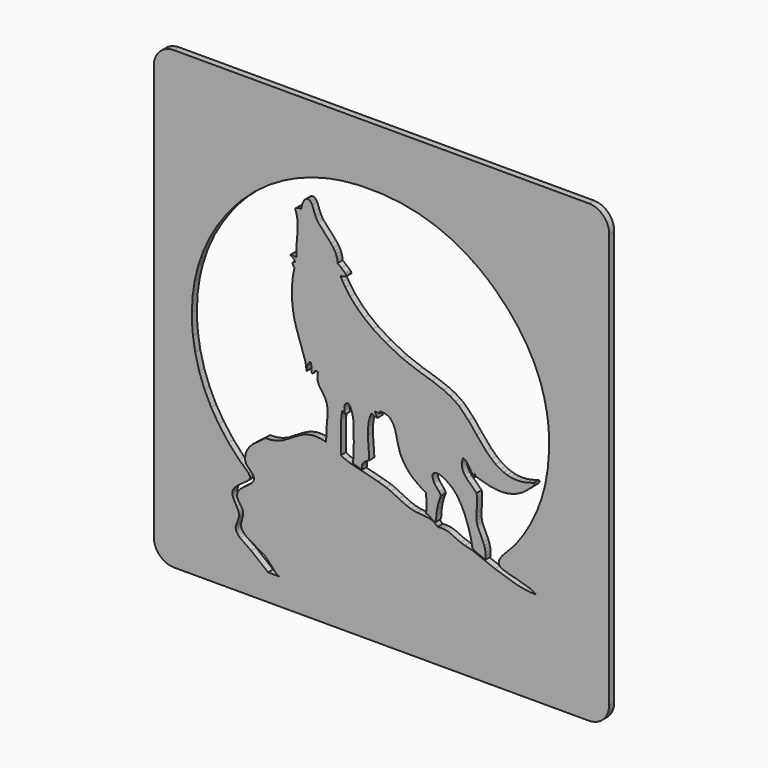
from build123d import *

# Parameters (mm, degrees)
F0_W     = 114.3
F0_H     = 114.3
F1_DEPTH = 1.5875
F2_R     = 5.08


with BuildPart() as f1:
    # F0 (on Front) → F1 (new body)
    with BuildSketch(Plane.XZ):
        Rectangle(F0_W, F0_H)
        Polygon((-50.6131689151, -48.9513142645), (-50.8, -48.5148517299), (-50.8, 48.5148517299), (-50.6382890609, 48.8979339545), (-50.478148131, 49.2040857324), (-50.2960270734, 49.4898273917), (-50.090355879, 49.7504489052), (-49.8988147667, 49.9482700539), (-49.688433545, 50.1288211024), (-49.4592122139, 50.2889620324), (-49.2095807643, 50.4286928438), (-48.937969187, 50.5464435276), (48.937969187, 50.5464435276), (49.2095807643, 50.4286928438), (49.4105419313, 50.3187922056), (49.6444732898, 50.1617912939), (49.8579945297, 49.9859502727), (50.0526756602, 49.7912691422), (50.2300866905, 49.5793179114), (50.4200577936, 49.3014262977), (50.6131689151, 48.9497442554), (50.8, 48.5148517299), (50.8, -48.5148517299), (50.6382890609, -48.8979339545), (50.478148131, -49.2056557415), (50.2960270734, -49.4898273917), (50.090355879, -49.7520189143), (49.8988147667, -49.949840063), (49.688433545, -50.1303911115), (49.4592122139, -50.2905320415), (49.2095807643, -50.4286928438), (48.937969187, -50.5464435276), (-25.7395144716, -50.5464435276), (-28.4477801987, -50.5464435276), (-48.937969187, -50.5464435276), (-49.2095807643, -50.4286928438), (-49.4105419313, -50.3187922056), (-49.6444732898, -50.163361303), (-49.8579945297, -49.9875202819), (-50.0526756602, -49.7928391513), (-50.2300866905, -49.5808879205), (-50.4200577936, -49.3029963068), align=None, mode=Mode.SUBTRACT)
        Polygon((-50.8, 48.5148517299), (-50.8, -48.5148517299), (-50.6131689151, -48.9513142645), (-50.4200577936, -49.3029963068), (-50.2300866905, -49.5808879205), (-50.0526756602, -49.7928391513), (-49.8579945297, -49.9875202819), (-49.6444732898, -50.163361303), (-49.4105419313, -50.3187922056), (-49.2095807643, -50.4286928438), (-48.937969187, -50.5464435276), (-28.4477801987, -50.5464435276), (-32.6820947878, -47.1599338618), (-35.5065411896, -45.1958524562), (-35.9084635236, -44.7970701405), (-36.1141347179, -44.5458686817), (-36.2884057299, -44.2836771591), (-36.4265665322, -44.0120655819), (-36.4972169425, -43.8236644878), (-36.5474572342, -43.6321233755), (-36.5772874075, -43.4343022268), (-36.5819974348, -43.3244015886), (-36.5725773801, -43.1532705948), (-36.544317216, -42.9758595645), (-36.4658167602, -42.6697077867), (-35.7844328033, -40.7417365908), (-35.740472548, -40.4779750591), (-35.7310524933, -40.3460942933), (-35.7294824842, -40.2173535457), (-35.7420425571, -40.0462225519), (-35.7891428307, -39.7903110658), (-35.8645032683, -39.5296895523), (-36.0026640706, -39.1827175374), (-36.3182359031, -38.5688439726), (-37.1456307079, -37.060065211), (-37.2869315284, -36.7036731414), (-37.3638619752, -36.4367715915), (-37.4125322578, -36.1698700416), (-37.4250923308, -35.9924590113), (-37.4235223216, -35.8150479811), (-37.3874121119, -35.5559964768), (-37.3167617017, -35.3079350362), (-37.2147111091, -35.0708636595), (-37.0828303432, -34.8416423284), (-36.9242594224, -34.6202710429), (-36.6463678086, -34.3046992104), (-36.2114752832, -33.9059168946), (-35.3479702687, -33.2637831657), (-33.6963206775, -32.089416346), (-33.4341291549, -31.8429249146), (-33.2896883161, -31.6765039482), (-33.1719376323, -31.5069429635), (-33.0855871309, -31.3358119698), (-33.0557569576, -31.2494614683), (-33.03377683, -31.1615409578), (-33.0212167571, -31.0736204472), (-33.0180767388, -31.0186701281), (-33.0212167571, -30.963719809), (-33.0400568665, -30.8506791526), (-33.0793070944, -30.7313584597), (-33.1326874044, -30.6088977485), (-33.2425880426, -30.4204966545), (-33.4341291549, -30.1583051319), (-33.7983712701, -29.7548127888), (-34.8125971598, -28.8316474279), (-35.7294824842, -28.0262327508), (-38.3953579652, -25.1044457837), (-40.8524222336, -21.8278367561), (-42.7427132106, -18.7396288226), (-44.3833727381, -15.3907993757), (-45.7335805789, -11.7829184244), (-46.7462364594, -7.9159859688), (-47.3004496778, -4.4965061116), (-47.4951308083, -2.358153694), (-47.5830513189, 0.5918934372), (-47.396220234, 4.3128150449), (-46.88753728, 7.851615595), (-46.0899726485, 11.2098650967), (-44.7915751086, 15.0014371146), (-43.1697556905, 18.5370976465), (-41.2763246952, 21.8137066741), (-38.7910002627, 25.3148270054), (-36.878729158, 27.6039002982), (-34.88324757, 29.71713257), (-31.747939363, 32.5509990265), (-28.2609491138, 35.1179639331), (-24.4442569499, 37.3724970253), (-20.9258665183, 39.0241466166), (-17.1955248559, 40.3853445212), (-13.2657920356, 41.427830575), (-9.8478821875, 42.0322840851), (-5.5884474526, 42.4185063279), (-0.2504164542, 42.4106562824), (4.7218024199, 41.9286634834), (9.3407692427, 41.0117781589), (13.6221841052, 39.6976805279), (17.5786070805, 38.0287608363), (21.2273082688, 36.041129294), (24.5808477431, 33.777176147), (26.6595398143, 32.1333766013), (28.6173411834, 30.3953765086), (31.7793395454, 27.1595877181), (34.360434534, 23.9991593652), (36.6887580548, 20.5215891706), (38.4283281566, 17.284230371), (39.88058659, 13.8050901674), (40.8382921515, 10.7168822339), (41.5369462086, 7.4528332792), (41.8195478497, 5.4086814087), (41.9953888709, 3.3017291734), (42.0456291626, -0.9231653609), (41.7347673574, -4.8670282633), (41.098913665, -8.5408495975), (40.1741782949, -11.9571894364), (38.996671457, -15.1333178805), (37.3497318931, -18.5465177012), (35.7451825754, -21.2406533463), (33.6978906866, -24.131040131), (33.3383585987, -24.5470925471), (30.2862608749, -27.7891613741), (29.8435183039, -28.4281550848), (29.644127146, -28.7971072273), (29.5436465625, -29.034178604), (29.4729961522, -29.2633999351), (29.4353159334, -29.4832012115), (29.4306059061, -29.6920124241), (29.443165979, -29.7909229985), (29.4635760975, -29.8882635637), (29.4855562252, -29.9510639284), (29.5122463802, -30.012294284), (29.5844667996, -30.1300449678), (29.6786673466, -30.2430856242), (29.7948480213, -30.3498462442), (29.9298688053, -30.4534668459), (30.1653701729, -30.5963376756), (30.528042279, -30.7737487058), (32.310002627, -31.3295319333), (34.0370126559, -31.7502943767), (37.2100010817, -32.6891598288), (37.8144545918, -32.9576313878), (38.2100968893, -33.1821426916), (38.5036885943, -33.3862438768), (38.7768701806, -33.6138951988), (36.5254771066, -33.4443342141), (34.0841129294, -33.0204317525), (28.4415001623, -31.2117812495), (22.8601177507, -29.0420286496), (22.141053575, -28.8347874461), (20.9635467371, -28.5616058597), (19.8127300542, -28.1942237263), (16.9207732604, -26.9083862593), (16.3351598597, -26.7466753203), (15.7165762675, -26.6399147003), (15.1921932224, -26.5990944632), (14.6395500131, -26.6085145179), (14.0539366124, -26.6713148826), (13.7305147343, -26.327482886), (13.4824532938, -26.113961646), (13.2281118168, -25.9334105976), (12.9659202942, -25.7826897223), (12.6974487352, -25.6586590021), (12.3253565744, -25.5299182544), (11.8339437207, -25.4184476071), (10.5151360623, -25.2802868048), (8.8053961337, -25.1468360299), (8.1193021495, -25.0385054008), (7.3123174633, -24.8359742247), (6.2588413456, -24.465452073), (4.3434302227, -23.5846769583), (2.3699287624, -22.6065612783), (1.1845718789, -22.1229984702), (-0.8454499096, -21.5028448689), (-8.139712268, -19.642384065), (-9.0738676927, -19.267151886), (-10.1603140018, -18.7113686585), (-10.1132137283, -10.7953826897), (-10.0080231175, -9.8298270827), (-9.8211920325, -8.7214006459), (-9.7756617681, -8.7292506915), (-9.733271522, -8.7418107645), (-9.6955913031, -8.7575108556), (-9.6594810934, -8.776350965), (-9.626510902, -8.7983310927), (-9.5966807288, -8.8218812294), (-9.5558604917, -8.8627014665), (-9.519750282, -8.9066617218), (-9.466369972, -8.9883021958), (-9.3030890238, -9.2599137731), (-9.265408805, -9.3038740284), (-9.224588568, -9.3446942654), (-9.1947583948, -9.3682444022), (-9.1790583036, -9.379234466), (-9.144518103, -9.3980745754), (-9.2889589418, -8.4230989137), (-9.3062290421, -7.9913464064), (-9.29209896, -7.7165948109), (-9.2622687868, -7.5219136804), (-9.2167385224, -7.3413626319), (-9.1743482762, -7.2298919846), (-9.1225379754, -7.1247013738), (-9.0613076198, -7.0305008267), (-8.9890872004, -6.9457203344), (-8.9058767172, -6.8719299059), (-8.810106161, -6.8075595321), (-8.7033455411, -6.7573192403), (-8.5824548391, -6.7212090306), (-8.447434055, -6.6976588939), (-8.2982831888, -6.6898088483), (-8.0486517392, -7.0038106717), (-7.8304204719, -7.3523526957), (-7.6388793596, -7.7338649112), (-7.4018079829, -8.360298549), (-7.2165469071, -9.0463925332), (-7.0438459042, -10.0386382952), (-6.9449353298, -14.8507162394), (-7.1129263054, -19.5591735818), (-4.910203514, -20.2358475113), (-4.9447437146, -19.8370651956), (-4.9384636781, -19.5685936365), (-4.9070634957, -19.3252422234), (-4.8521131766, -19.1070109561), (-4.7751827299, -18.9076197982), (-4.6809821829, -18.7286387588), (-4.5679415264, -18.5669278198), (-4.4407707879, -18.4209169719), (-4.2994699674, -18.2874661969), (-4.093798773, -18.1273252669), (-3.58354581, -17.8148934526), (-3.048172701, -17.5260117751), (-3.4155548344, -12.2272310046), (-3.3464744333, -10.209769289), (-3.1784834577, -8.96318205), (-3.0010724275, -8.1985876099), (-2.8283714246, -7.6679245283), (-2.539489747, -7.0273608085), (-2.4484292182, -7.0493409361), (-2.3196884706, -7.0933011914), (-1.4467634015, -7.4575433066), (-1.3384327724, -7.4826634525), (-1.2348121707, -7.4952235254), (-1.1688717877, -7.4967935345), (-1.1045014139, -7.4920835072), (-1.0417010492, -7.4795234342), (-0.9820407028, -7.4575433066), (-0.9255203746, -7.4292831425), (-0.8988302196, -7.4104430331), (-0.8470199187, -7.3664827778), (-0.8925501831, -7.3476426684), (-0.9412204657, -7.3209525134), (-1.0134408851, -7.2707122217), (-1.1107814504, -7.1875017384), (-1.2065520066, -7.0885911641), (-1.319592663, -6.9472903435), (-1.4185032374, -6.7965694683), (-1.5001437115, -6.6442785839), (-1.547243985, -6.5265279001), (-1.5707941217, -6.4433174169), (-1.5802141764, -6.391507116), (-1.5833541947, -6.3428368334), (-1.5817841856, -6.2988765781), (-1.57393414, -6.2580563411), (-1.5676541035, -6.2407862408), (-1.5598040579, -6.2235161405), (-1.5488139941, -6.2078160493), (-1.5378239303, -6.1936859673), (-1.5236938482, -6.1811258943), (-0.9396504566, -6.377377034), (-0.770089472, -6.4134872437), (-0.6884489979, -6.4213372893), (-0.6413487244, -6.4197672801), (-0.6005284873, -6.4134872437), (-0.5644182776, -6.4024971799), (-0.5487181865, -6.3946471343), (-0.5345881044, -6.3867970887), (-0.5220280315, -6.3758070249), (-0.5094679585, -6.364816961), (-0.5000479038, -6.3522568881), (-0.4906278491, -6.3381268061), (-0.4827778035, -6.3224267149), (-0.4749277579, -6.3051566146), (-0.4655077032, -6.2674763958), (-0.4592276668, -6.2250861496), (-0.4576576577, -6.176415867), (-0.4639376941, -6.0916353747), (-0.4780677762, -5.9942948094), (-0.5078979494, -5.842003925), (-0.0086350501, -5.8200237974), (0.4466675938, -5.8435739341), (0.8611500008, -5.9079443079), (1.2379521889, -6.0147049279), (1.5786441673, -6.1575757576), (1.8863659543, -6.3365567969), (2.1611175498, -6.5485080278), (2.4091789903, -6.7902894318), (2.6305502758, -7.060331), (2.8283714246, -7.355492714), (3.0858529198, -7.8406255312), (3.3668845518, -8.5518396613), (3.6981564755, -9.7183564353), (4.0702486363, -11.3558759446), (4.5726515538, -13.1237062105), (4.9839939425, -14.1033918996), (5.459706705, -14.9998671055), (5.9982198322, -15.8209818738), (6.718854017, -16.7158870706), (7.5164186485, -17.5260117751), (8.5353545655, -18.3800967348), (9.8070619505, -19.2593018404), (11.1761099006, -20.0662865267), (11.3378208397, -22.8295025729), (11.2985706118, -23.7448178882), (11.1761099006, -24.6381530759), (11.2860105388, -24.6569931853), (11.3974811862, -24.6868233585), (11.5686121799, -24.7496237232), (11.8041135475, -24.8642343888), (12.3379166474, -25.1923662943), (13.0554108139, -25.6429589109), (13.2014216618, -25.7104693029), (13.2924821906, -25.7434394944), (13.378832692, -25.765419622), (13.458903157, -25.7732696676), (13.4965833758, -25.7732696676), (13.5342635946, -25.7685596403), (13.5688037952, -25.7591395856), (13.6017739867, -25.7481495217), (13.633174169, -25.7308794214), (13.6630043422, -25.7104693029), (13.6896944972, -25.685349157), (13.7163846522, -25.6555189838), (13.7619149166, -24.2440807875), (13.9204858375, -22.9456832476), (14.2046574877, -21.6284455983), (14.5076692473, -20.620499745), (14.9017415357, -19.5591735818), (14.7871308701, -19.2969820592), (14.6536800952, -19.0552006552), (14.44957891, -18.7568989229), (13.2736420812, -17.3030704804), (13.1386212971, -17.0597190673), (13.0255806407, -16.7975275447), (12.9376601301, -16.5102158763), (12.8779997837, -16.1946440437), (12.8497396196, -15.8461020197), (12.8513096287, -15.5949005609), (12.868579729, -15.3248589928), (13.0318606771, -15.1631480537), (13.2092717074, -15.0375473243), (13.4023828288, -14.9464867955), (13.6080540231, -14.8868264491), (13.8262852904, -14.8569962759), (14.0523666033, -14.8554262667), (14.2878679709, -14.8805464126), (14.6521100861, -14.9590468685), (15.0273422651, -15.0830775887), (15.5313151917, -15.3075888925), (16.1530388021, -15.6545609074), (16.9631635066, -16.2056341075), (17.6398374361, -16.7472872529), (18.1186902168, -17.1884598149), (18.7043036175, -17.8431536167), (19.3872575835, -18.7898691144), (20.1377219415, -20.0772765905), (21.015357038, -21.9769876223), (21.9055522074, -24.4890022098), (22.4440653346, -26.4734937339), (22.8601177507, -28.5333456956), (23.0689289633, -28.7044766894), (23.2981502944, -28.8551975646), (23.6702424551, -29.0514487043), (24.4112867585, -29.3528904548), (25.2433915906, -29.6590422326), (26.0770664318, -30.0578245484), (26.1304467418, -29.1896095066), (26.0911965138, -28.4030349389), (25.9750158392, -27.6871107815), (25.799174818, -27.0292769614), (25.5134331587, -26.2693925486), (24.1082749988, -23.1968847063), (23.9842442786, -22.7431520715), (23.8759136495, -22.0994483334), (23.8335234033, -21.4039342945), (23.8712036221, -20.2766677484), (24.0234945065, -17.5417118662), (23.9873842968, -16.8697479641), (23.8759136495, -16.0031029314), (21.3811691623, -13.5852888909), (20.8771962357, -12.9243150526), (20.6228547587, -12.5098326457), (20.4156135552, -12.0812201567), (20.2601826526, -11.6384775856), (20.1911022515, -11.335465826), (20.1518520236, -11.0277440391), (20.1455719871, -10.7137422156), (20.1738321512, -10.3934603557), (20.238202525, -10.0668984594), (20.3433931358, -9.7356265356), (20.4894039837, -9.3980745754), (20.6746650596, -9.4467448581), (20.8489360716, -9.5205352866), (21.0137870289, -9.6178758518), (21.1707879406, -9.7340565265), (21.3921592261, -9.9397277209), (21.5978304205, -10.1783691067), (21.9102622348, -10.6258217051), (22.904078006, -12.2743312781), (23.0029885803, -12.3889419437), (23.105039173, -12.4847124998), (23.2086597747, -12.5569329192), (23.2620400847, -12.5851930833), (23.3154203947, -12.6056032018), (23.3688007046, -12.6181632748), (23.4237510238, -12.6260133204), (23.480271352, -12.6244433112), (23.5367916802, -12.6165932656), (23.5085315161, -12.6103132292), (23.4834113702, -12.6024631836), (23.4614312426, -12.5899031107), (23.4425911332, -12.5757730286), (23.4253210329, -12.5585029283), (23.4111909508, -12.5396628189), (23.3986308779, -12.5176826913), (23.3876408141, -12.4941325545), (23.3766507502, -12.4548823266), (23.3688007046, -12.4124920804), (23.3640906773, -12.1801307311), (23.3688007046, -11.938349327), (23.4473011605, -12.0592400291), (23.5383616893, -12.166000649), (23.6388422728, -12.2602011961), (23.748742911, -12.3449816884), (23.9073138318, -12.4423222536), (24.0784448256, -12.5255327369), (24.8006490195, -12.7531840588), (25.5699534869, -12.9541452258), (27.2608533061, -13.3906077604), (28.6032111013, -13.6025589912), (29.8843385409, -13.6810594471), (30.8655942392, -13.6465192465), (31.8107397277, -13.5271985536), (32.7182049975, -13.3262373866), (33.5911300666, -13.0404957273), (34.4263749169, -12.6731135939), (35.2286495758, -12.2240909864), (35.9963840341, -11.6949979139), (36.5490272434, -11.2459753064), (37.0844003523, -10.7529924436), (37.2461112914, -10.6101216139), (38.0326858591, -9.9774079397), (38.1535765611, -9.8439571647), (38.2289369987, -9.740336563), (38.2713272449, -9.6681161436), (38.3042974364, -9.5943257151), (38.3278475731, -9.5189652775), (38.3435476643, -9.4404648216), (38.3466876825, -9.3603943566), (38.3404076461, -9.2771838734), (38.3215675367, -9.1924033811), (38.3074374546, -9.1484431258), (38.2697572358, -9.0605226152), (36.4987869516, -9.6037457698), (35.3935005331, -9.8047069368), (34.3447344428, -9.8894874291), (33.3509186717, -9.861227265), (32.4057731831, -9.7324865174), (31.5092979772, -9.5095452228), (30.6567830266, -9.1986834176), (29.8435183039, -8.8093211565), (28.6958416392, -8.0981070264), (27.620385394, -7.2534421214), (26.2827376261, -5.9723146817), (23.8398034398, -3.108618052), (21.8239117333, -0.6091635375), (19.4736080849, 1.7772503206), (18.4860723502, 2.5073045601), (17.1892448194, 3.2907391096), (15.5564353376, 4.0773136773), (12.6911686987, 5.1402098496), (9.1209679663, 6.2643363775), (5.2493254833, 7.704034738), (1.0448410675, 9.8031369277), (-2.150127486, 11.803328543), (-4.4392007788, 13.5648787724), (-6.236861218, 15.2369384822), (-7.8618206543, 17.0738491493), (-9.0707276745, 18.7396288226), (-9.7269914855, 19.8009549859), (-10.3298749865, 20.9125214408), (-10.0928036098, 20.8983913588), (-9.8777123607, 20.9078114135), (-9.6814612211, 20.9345015685), (-9.4726500085, 20.9863118693), (-9.144518103, 21.1056325622), (-8.8053961337, 21.2516434101), (-8.8179562066, 21.3411339298), (-8.8430763525, 21.4306244495), (-8.8807565713, 21.5201149692), (-8.9278568448, 21.611175498), (-9.0204873828, 21.7477662912), (-9.1727782671, 21.9283173396), (-10.0661134548, 22.6897717615), (-11.006548916, 23.4527961924), (-11.0850493718, 24.1184800581), (-11.2294902106, 24.7370636503), (-11.4320213867, 25.3148270054), (-11.6879328728, 25.8564801508), (-12.0977052524, 26.5315840712), (-12.6974487352, 27.3165886298), (-15.9049773616, 30.8899293805), (-16.1263486471, 31.2243413225), (-16.4262203885, 31.7502943767), (-16.5926413549, 32.1192465192), (-17.3949160138, 34.2544589186), (-17.5597669711, 34.5386305688), (-17.6947877552, 34.7223216355), (-17.7936983295, 34.8306522646), (-17.8973189313, 34.9232828025), (-18.0087895786, 35.0017832584), (-18.1265402624, 35.063013614), (-18.2521409918, 35.1069738692), (-18.3196513838, 35.1211039513), (-18.4578121861, 35.1368040425), (-18.5959729884, 35.1320940151), (-18.724713736, 35.1101138875), (-18.8471744472, 35.0692936504), (-18.9617851127, 35.0159133404), (-19.0685457327, 34.9468329393), (-19.1690263162, 34.8636224561), (-19.2616568541, 34.769421909), (-19.3903976017, 34.6092809791), (-19.5065782764, 34.4287299306), (-19.6415990605, 34.1649683989), (-19.8080200269, 33.7363559099), (-20.010551203, 33.0188617434), (-20.1502820144, 32.4269683062), (-20.5443543028, 32.4552284703), (-20.7829956887, 32.4489484339), (-20.9651167462, 32.4285383153), (-21.1001375303, 32.4002781512), (-21.2225982415, 32.3610279233), (-21.3073787338, 32.3233477045), (-21.3858791897, 32.2793874492), (-21.4565295999, 32.2291471574), (-21.5193299646, 32.1710568201), (-21.5758502928, 32.1051164372), (-21.6245205755, 32.0313260087), (-21.6512107305, 31.9763756896), (-21.6747608672, 31.9198553614), (-21.4549595908, 31.3782022159), (-21.2869686153, 30.8004388608), (-21.1378177491, 29.9777540834), (-21.0498972386, 28.8881677561), (-21.0750173845, 27.0606771437), (-21.3026687064, 24.1122000216), (-21.3356388979, 21.4212043948), (-21.4047192991, 21.4055043036), (-21.4737997002, 21.3960842489), (-21.5428801014, 21.3945142398), (-21.644930694, 21.4023642854), (-21.7799514781, 21.4290544404), (-22.046853028, 21.5106949145), (-22.3294546691, 21.5970454159), (-22.4189451888, 21.6143155162), (-22.4770355261, 21.6190255436), (-22.5335558543, 21.6174555344), (-22.5885061734, 21.6096054889), (-22.6418864834, 21.5954754068), (-22.6936967843, 21.5734952792), (-22.743937076, 21.5420950968), (-22.7926073586, 21.5012748598), (-22.8145874863, 21.477724723), (-22.8601177507, 21.4212043948), (-22.1771637847, 20.9659017508), (-22.0264429095, 20.8308809667), (-21.9353823807, 20.7335404015), (-21.8537419066, 20.6252097724), (-21.7815214872, 20.5074590886), (-21.7218611407, 20.3771483319), (-21.6747608672, 20.2342775022), (-22.0185928639, 20.0914066725), (-22.1394835659, 20.0254662896), (-22.2305440947, 19.9610959158), (-22.2760743591, 19.9202756788), (-22.3090445506, 19.8794554417), (-22.3216046235, 19.8590453232), (-22.3325946873, 19.8370651956), (-22.3404447329, 19.816655077), (-22.3451547602, 19.7962449585), (-22.3482947785, 19.7742648309), (-22.3482947785, 19.7538547123), (-22.3467247694, 19.7318745847), (-22.3388747238, 19.6879143294), (-22.3216046235, 19.6408140559), (-22.2980544867, 19.5937137824), (-22.235254122, 19.4900931807), (-22.0625531192, 19.2436017493), (-21.8443218519, 18.8809296432), (-22.247814195, 16.8069475994), (-22.4644754532, 14.6403350177), (-22.475465517, 12.3701018343), (-22.3749849335, 10.8880132276), (-22.1834438212, 9.2285135908), (-21.8851420889, 7.609834191), (-21.3246488341, 5.6426127671), (-19.1282060791, -0.8383848686), (-18.9303849304, -1.8698808586), (-18.7969341554, -2.9641772132), (-18.6006830158, -1.7380000927), (-18.5080524779, -1.4239982693), (-18.429552022, -1.2308871479), (-18.3589016117, -1.099006382), (-18.2788311468, -0.9765456709), (-18.1862006088, -0.8650750236), (-18.081009998, -0.7661644492), (-18.0040795512, -0.709644121), (-17.9192990589, -0.6578338201), (-17.8753388036, -0.6342836833), (-17.7795682475, -0.5934634463), (-17.7418880287, -0.6625438474), (-17.7089178372, -0.7394742942), (-17.6712376184, -0.8635050144), (-17.6461174725, -1.0000958076), (-17.6225673358, -1.2481572482), (-17.5943071717, -2.5198646331), (-17.558196962, -2.7019856907), (-17.5173767249, -2.8228763927), (-17.4828365243, -2.8966668212), (-17.4420162873, -2.9641772132), (-17.4184661505, -2.9783072953), (-17.3964860229, -2.98772735), (-17.3745058953, -2.9940073865), (-17.3509557585, -2.9955773956), (-17.33054564, -2.9940073865), (-17.3085655123, -2.98772735), (-17.2865853847, -2.9783072953), (-17.2646052571, -2.9657472224), (-17.2426251294, -2.9500471312), (-17.2002348833, -2.9092268941), (-17.1342945003, -2.8322964474), (-16.7622023396, -2.3204734752), (-16.6711418108, -2.2325529646), (-16.6052014278, -2.183882682), (-16.5361210267, -2.1446324541), (-16.4623305982, -2.11637229), (-16.4246503794, -2.1085222444), (-16.3854001514, -2.1022422079), (-16.3445799144, -2.1006721988), (-16.3021896682, -2.1022422079), (-16.2597994221, -2.1085222444), (-16.2142691577, -2.1195123082), (-16.1216386198, -2.1556225179), (-16.0227280454, -2.210572837), (-15.9175374345, -2.2859332746), (-16.0290080818, -2.7349558821), (-16.0870984192, -3.1572883346), (-16.0949484648, -3.5529306322), (-16.0588382551, -3.9265928021), (-15.9850478266, -4.2798448534), (-15.8782872066, -4.6126867863), (-15.6930261308, -5.0318792206), (-15.4104244897, -5.520152056), (-14.7039203869, -6.5045477725), (-14.0555066215, -7.5360437625), (-13.8686755366, -8.0070464976), (-13.7273747161, -8.4906093057), (-13.6033439958, -9.1562931714), (-13.5358336038, -10.0197981858), (-13.5578137314, -11.2883655525), (-13.7980251263, -14.0264614529), (-13.8859456369, -17.0188988302), (-15.1215428121, -16.7394372074), (-16.2488093582, -16.6216865236), (-16.9458934063, -16.6248265418), (-17.6037272264, -16.6844868883), (-18.5300326055, -16.8713179732), (-19.3919676108, -17.1554896234), (-20.2068023427, -17.5181617295), (-21.4926398096, -18.2403659234), (-24.5714276884, -20.0898366634), (-25.7112543075, -20.579679508), (-26.6391296957, -20.8560011126), (-27.6423655216, -21.0334121428), (-28.3614296973, -21.0883624619), (-29.1260241373, -21.0820824255), (-32.4371733655, -23.5972370312), (-33.0384868574, -24.237800751), (-33.4545392734, -24.7935839785), (-33.7183008051, -25.2410365769), (-33.931822045, -25.7167493394), (-34.0903929659, -26.2191522569), (-34.186163522, -26.7545253658), (-34.212853677, -27.1281875357), (-34.2065736405, -27.5175497968), (-34.186163522, -27.694960827), (-34.1469132941, -27.8660918208), (-34.0935329841, -28.029372769), (-34.0244525829, -28.1863736807), (-33.8988518536, -28.4108849845), (-33.7481309783, -28.6228362153), (-33.4592493008, -28.9572481572), (-32.3194226817, -30.1174848948), (-32.1922519432, -30.3043159798), (-32.123171542, -30.4314867183), (-32.0682212229, -30.561797475), (-32.028970995, -30.69524825), (-32.0164109221, -30.7643286511), (-32.0038508491, -30.9040594626), (-32.0211209494, -31.1489808848), (-32.0745012594, -31.3797722251), (-32.16242177, -31.5995735015), (-32.283312472, -31.808384714), (-32.430893329, -32.0077758719), (-32.6977948789, -32.2919475221), (-33.1216973406, -32.6530496191), (-35.3102900499, -34.2780090554), (-35.6117318004, -34.595150897), (-35.7875728215, -34.8180921917), (-35.9398637059, -35.0551635684), (-36.0638944262, -35.3063650271), (-36.1565249641, -35.5716965679), (-36.2161853105, -35.854298209), (-36.2381654382, -36.1541699504), (-36.2318854017, -36.2923307527), (-36.2130452923, -36.4273515368), (-36.1643750097, -36.6236026764), (-36.0921545903, -36.8120037705), (-35.9665538609, -37.0553551837), (-35.7326225024, -37.4101772441), (-35.0496685365, -38.372592833), (-34.9115077341, -38.6363543647), (-34.8267272418, -38.8435955681), (-34.762356868, -39.0618268354), (-34.7325266948, -39.2141177198), (-34.7136865854, -39.3711186315), (-34.708976558, -39.5720797985), (-34.7278166674, -39.8452613849), (-34.7843369957, -40.1890933815), (-35.2506297035, -42.0385641216), (-35.2631897764, -42.2693554618), (-35.2521997126, -42.43263641), (-35.244349667, -42.48601672), (-35.2223695394, -42.5880673126), (-35.1360190379, -42.8471188169), (-35.0276884088, -43.0936102483), (-34.8973776521, -43.3275416068), (-34.6650163028, -43.6556735123), (-34.3934047255, -43.9618252901), (-34.0841129294, -44.2459969403), (-33.6256702672, -44.5992489917), (-31.6113485698, -45.7532056928), (-29.4651461067, -46.9903728772), (-29.0255435538, -47.3404849103), (-28.5608208552, -47.7895075178), (-26.5967394496, -49.9733901998), (-26.2780275988, -50.2230216494), (-26.0189760944, -50.3925826341), (-25.7395144716, -50.5464435276), (48.937969187, -50.5464435276), (49.2095807643, -50.4286928438), (49.4592122139, -50.2905320415), (49.688433545, -50.1303911115), (49.8988147667, -49.949840063), (50.090355879, -49.7520189143), (50.2960270734, -49.4898273917), (50.478148131, -49.2056557415), (50.6382890609, -48.8979339545), (50.8, -48.5148517299), (50.8, 48.5148517299), (50.6131689151, 48.9497442554), (50.4200577936, 49.3014262977), (50.2300866905, 49.5793179114), (50.0526756602, 49.7912691422), (49.8579945297, 49.9859502727), (49.6444732898, 50.1617912939), (49.4105419313, 50.3187922056), (49.2095807643, 50.4286928438), (48.937969187, 50.5464435276), (-48.937969187, 50.5464435276), (-49.2095807643, 50.4286928438), (-49.4592122139, 50.2889620324), (-49.688433545, 50.1288211024), (-49.8988147667, 49.9482700539), (-50.090355879, 49.7504489052), (-50.2960270734, 49.4898273917), (-50.478148131, 49.2040857324), (-50.6382890609, 48.8979339545), align=None)
    extrude(amount=F1_DEPTH)

    # F2
    f2_edges = [f1.edges().sort_by_distance(p)[0] for p in [
        (-57.15, -0.79375, 57.15),
        (57.15, -0.79375, 57.15),
        (-57.15, -0.79375, -57.15),
        (57.15, -0.79375, -57.15),
    ]]
    fillet(f2_edges, radius=F2_R)


solid = f1.part
